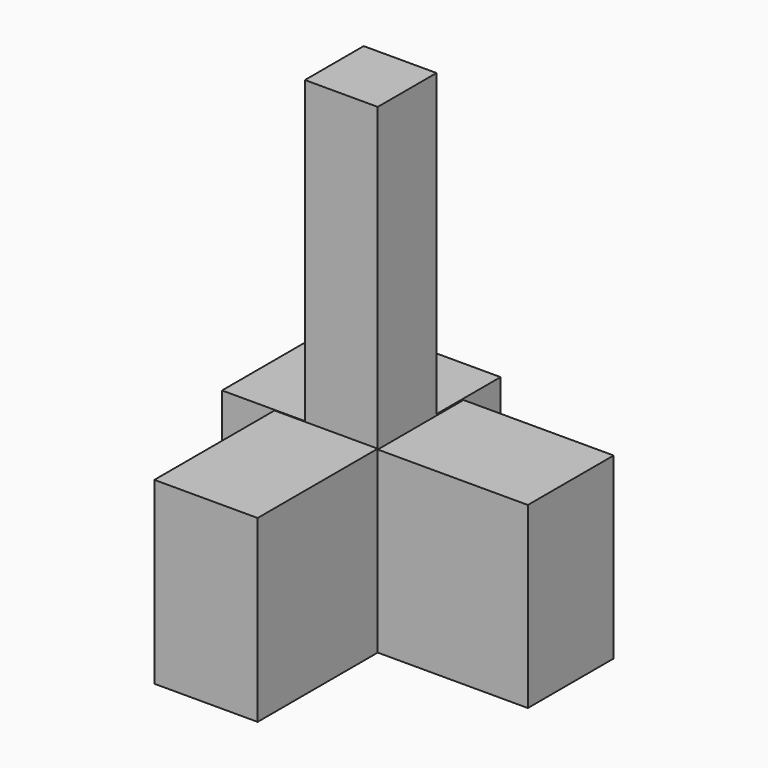
from build123d import *

# Parameters (mm, degrees)
F0_W      = 75.6071731448
F0_H      = 75.7589936256
F1_DEPTH  = 25.4
F2_W      = 70.1403468847
F2_H      = 69.1941156983
F3_DEPTH  = 25.4
F4_W      = 65.8708810806
F4_H      = 64.9246573448
F5_DEPTH  = 25.4
F6_W      = 30.8003034443
F6_H      = 31.0739278793
F7_DEPTH  = 127
F8_W      = 43.6810515821
F8_H      = 75.9361535311
F9_DEPTH  = 63.5
F10_W     = 45.3466251493
F10_H     = 75.6209716201
F11_DEPTH = 63.5


with BuildPart() as f1:
    # F0 (on Top) → F1 (new body)
    with BuildSketch(Plane.XY):
        with Locations((-37.8035865724, 37.8794968128)):
            Rectangle(F0_W, F0_H)
    extrude(amount=F1_DEPTH)

    # F2 (on face) → F3 (join)
    with BuildSketch(Plane.XY.offset(25.4)):
        with Locations((-35.0701734424, 34.5970578492)):
            Rectangle(F2_W, F2_H)
    extrude(amount=F3_DEPTH)

    # F4 (on face) → F5 (join)
    with BuildSketch(Plane.XY.offset(50.8)):
        with Locations((-32.9354405403, 32.4623286724)):
            Rectangle(F4_W, F4_H)
    extrude(amount=F5_DEPTH)

    # F6 (on face) → F7 (join)
    with BuildSketch(Plane.XY.offset(76.2)):
        with Locations((-15.4001517221, 15.5369639397)):
            Rectangle(F6_W, F6_H)
    extrude(amount=F7_DEPTH)

    # F8 (on Front) → F9 (join)
    with BuildSketch(Plane.XZ):
        with Locations((-21.840525791, 37.9680767655)):
            Rectangle(F8_W, F8_H)
    extrude(amount=F9_DEPTH)

    # F10 (on Right) → F11 (join)
    with BuildSketch(Plane.YZ):
        with Locations((22.6733125746, 37.81048581)):
            Rectangle(F10_W, F10_H)
    extrude(amount=F11_DEPTH)


solid = f1.part
